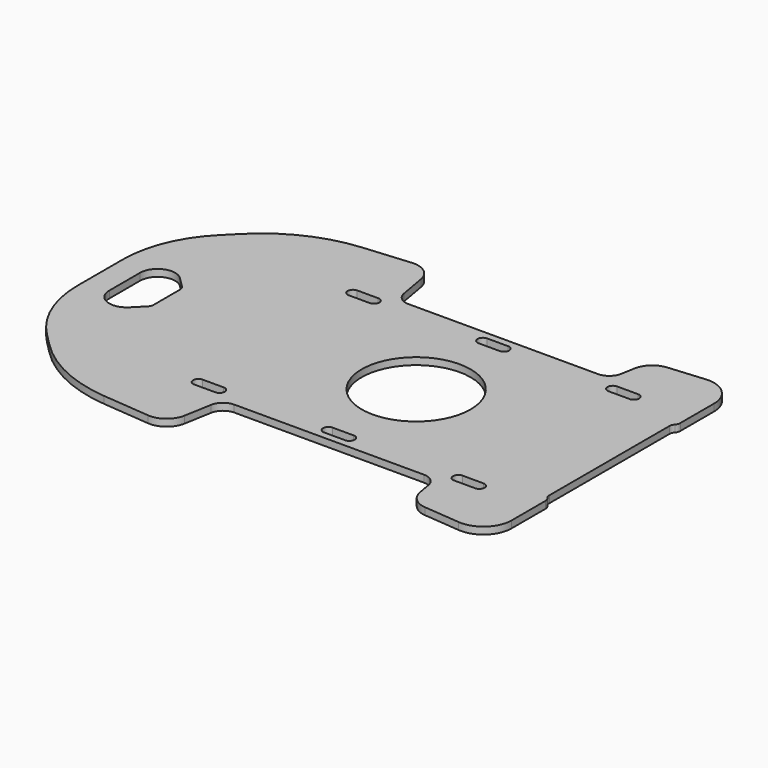
from build123d import *

# Parameters (mm, degrees)
PAD_DEPTH       = 1
SKETCH_R        = 7.75
POCKET_DEPTH    = 1.001
POCKET001_DEPTH = 1.001


with BuildPart() as part:
    # Sketch007 → Pad (new body)
    with BuildSketch(Plane.XY):
        with BuildLine():
            Line((13.5, 15.5), (-13.5, 15.5))
            ThreePointArc((-15.469616, 17.152704), (-14.785575, 15.967911), (-13.5, 15.5))
            Line((-15.469616, 17.152704), (-16.153704, 21.03236))
            ThreePointArc((-16.153704, 21.03236), (-17.281843, 22.891476), (-19.369594, 23.5))
            Line((-19.369594, 23.5), (-26.098892, 22.911263))
            ThreePointArc((-26.098892, 22.911263), (-32.808142, 21.113525), (-38.497913, 17.129504))
            Line((-40.313708, 15.313708), (-38.497913, 17.129504))
            ThreePointArc((-40.313708, 15.313708), (-43.782073, 10.122935), (-45, 4))
            Line((-45, 4), (-45, 0))
            Line((-45, 0), (27.5, 0))
            Line((27.5, 0), (27.5, 10.677124))
            ThreePointArc((27.75, 11.338562), (27.564586, 11.030678), (27.5, 10.677124))
            ThreePointArc((27.75, 11.338562), (27.935414, 11.646447), (28, 12))
            Line((28, 18.015221), (28, 12))
            ThreePointArc((28, 18.015221), (26.702361, 20.964331), (23.651377, 22))
            Line((18.502743, 21.549553), (23.651377, 22))
            ThreePointArc((18.502743, 21.549553), (16.73744, 20.772801), (15.809787, 19.081913))
            Line((15.809787, 19.081913), (15.469616, 17.152704))
            ThreePointArc((13.5, 15.5), (14.785575, 15.967911), (15.469616, 17.152704))
        make_face()
        with BuildLine():
            Line((-20, 13), (-17, 13))
            ThreePointArc((-17, 13), (-16.25, 13.75), (-17, 14.5))
            Line((-20, 14.5), (-17, 14.5))
            ThreePointArc((-20, 14.5), (-20.75, 13.75), (-20, 13))
        make_face(mode=Mode.SUBTRACT)
        with BuildLine():
            Line((-1.5, 13), (1.5, 13))
            ThreePointArc((1.5, 13), (2.25, 13.75), (1.5, 14.5))
            Line((-1.5, 14.5), (1.5, 14.5))
            ThreePointArc((-1.5, 14.5), (-2.25, 13.75), (-1.5, 13))
        make_face(mode=Mode.SUBTRACT)
        with BuildLine():
            Line((17, 13), (20, 13))
            ThreePointArc((20, 13), (20.75, 13.75), (20, 14.5))
            Line((17, 14.5), (20, 14.5))
            ThreePointArc((17, 14.5), (16.25, 13.75), (17, 13))
        make_face(mode=Mode.SUBTRACT)
    pad = extrude(amount=PAD_DEPTH)

    # Mirrored: Pad across Sketch007 H_Axis
    add(pad.mirror(Plane.ZX))

    # Sketch (on Face5 of Mirrored) → Pocket (cut, through all)
    with BuildSketch(Plane.XY.offset(1)):
        Circle(SKETCH_R)
    extrude(amount=-POCKET_DEPTH, mode=Mode.SUBTRACT)

    # Sketch008 → Pocket001 (cut, through all)
    with BuildSketch(Plane.XY):
        with BuildLine():
            Line((-41.5, 2.732233), (-41.5, -2.732233))
            ThreePointArc((-41.5, -2.732233), (-39.956709, -5.041932), (-37.232233, -4.5))
            Line((-35.792893, -3.06066), (-37.232233, -4.5))
            ThreePointArc((-35.792893, -3.06066), (-35.57612, -2.736237), (-35.5, -2.353553))
            Line((-35.5, 2.353553), (-35.5, -2.353553))
            ThreePointArc((-35.5, 2.353553), (-35.57612, 2.736237), (-35.792893, 3.06066))
            Line((-37.232233, 4.5), (-35.792893, 3.06066))
            ThreePointArc((-37.232233, 4.5), (-39.956709, 5.041932), (-41.5, 2.732233))
        make_face()
    extrude(amount=POCKET001_DEPTH, mode=Mode.SUBTRACT)


solid = part.part
